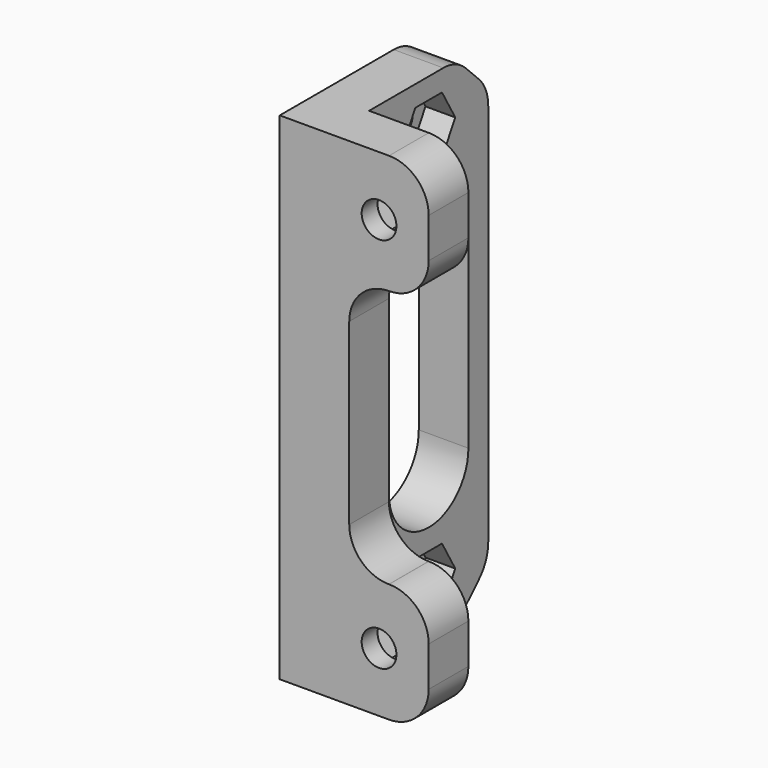
from build123d import *

# Parameters (mm, degrees)
PAD_DEPTH       = 25
SKETCH001_R     = 1.75
POCKET_DEPTH    = 5.001
POCKET001_DEPTH = 3
SKETCH003_R     = 1.75
SKETCH003_W     = 12
SKETCH003_H     = 26
POCKET002_DEPTH = 20.001
POCKET003_DEPTH = 3
FILLET_R        = 3.99
POCKET004_DEPTH = 5.001
CHAMFER_SIZE    = 4
FILLET001_R     = 4


with BuildPart() as part:
    # Sketch → Pad (new body, symmetric)
    with BuildSketch(Plane.XY):
        Polygon((0, 0), (15, 0), (15, 5), (5, 5), (5, 20), (0, 20), align=None)
    extrude(amount=PAD_DEPTH, both=True)

    # Sketch001 (on Face4 of Pad) → Pocket (cut, through all)
    with BuildSketch(Plane.YZ.offset(5)):
        with Locations((12.5, 20)):
            Circle(SKETCH001_R)
        with Locations((12.5, -20)):
            Circle(SKETCH001_R)
    extrude(amount=-POCKET_DEPTH, mode=Mode.SUBTRACT)

    # Sketch002 (on Face10 of Pocket) → Pocket001 (cut)
    with BuildSketch(Plane.YZ.offset(5)):
        Polygon((14.174316, 17.1), (15.848632, 20), (14.174316, 22.9), (10.825684, 22.9), (9.151368, 20), (10.825684, 17.1), align=None)
        Polygon((14.174316, -22.9), (15.848632, -20), (14.174316, -17.1), (10.825684, -17.1), (9.151368, -20), (10.825684, -22.9), align=None)
    extrude(amount=-POCKET001_DEPTH, mode=Mode.SUBTRACT)

    # Sketch003 (on Face1 of Pocket001) → Pocket002 (cut, through all)
    with BuildSketch(Plane.XZ):
        with Locations((10, 19)):
            Circle(SKETCH003_R)
        with Locations((10, -19)):
            Circle(SKETCH003_R)
        with Locations((13, 0)):
            Rectangle(SKETCH003_W, SKETCH003_H)
    extrude(amount=-POCKET002_DEPTH, mode=Mode.SUBTRACT)

    # Sketch004 (on Face12 of Pocket002) → Pocket003 (cut)
    with BuildSketch(Plane(origin=(0, 5, 0), x_dir=(-1, 0, 0), z_dir=(0, 1, 0))):
        Polygon((-6.651368, 19), (-8.325684, 21.9), (-11.674316, 21.9), (-13.348632, 19), (-11.674316, 16.1), (-8.325684, 16.1), align=None)
        Polygon((-6.651368, -19), (-8.325684, -16.1), (-11.674316, -16.1), (-13.348632, -19), (-11.674316, -21.9), (-8.325684, -21.9), align=None)
    extrude(amount=-POCKET003_DEPTH, mode=Mode.SUBTRACT)

    # Fillet
    fillet_edges = [part.edges().sort_by_distance(p)[0] for p in [
        (15, 2.5, -25),
        (15, 2.5, -13),
        (7, 2.5, -13),
        (7, 2.5, 13),
        (15, 2.5, 13),
        (15, 2.5, 25),
    ]]
    fillet(fillet_edges, radius=FILLET_R)

    # Sketch005 (on Face20 of Fillet) → Pocket004 (cut, through all)
    with BuildSketch(Plane.YZ.offset(5)):
        with BuildLine():
            ThreePointArc((17.5, 10), (12.5, 15), (7.5, 10))
            Line((7.5, 10), (7.5, -10))
            ThreePointArc((7.5, -10), (12.5, -15), (17.5, -10))
            Line((17.5, 10), (17.5, -10))
        make_face()
    extrude(amount=-POCKET004_DEPTH, mode=Mode.SUBTRACT)

    # Chamfer
    chamfer_edges = [part.edges().sort_by_distance(p)[0] for p in [
        (2.5, 20, -25),
        (2.5, 20, 25),
    ]]
    chamfer(chamfer_edges, length=CHAMFER_SIZE)

    # Fillet001
    fillet001_edges = [part.edges().sort_by_distance(p)[0] for p in [
        (2.5, 20, -21),
        (2.5, 20, 21),
        (2.5, 16, -25),
        (2.5, 16, 25),
    ]]
    fillet(fillet001_edges, radius=FILLET001_R)


solid = part.part
